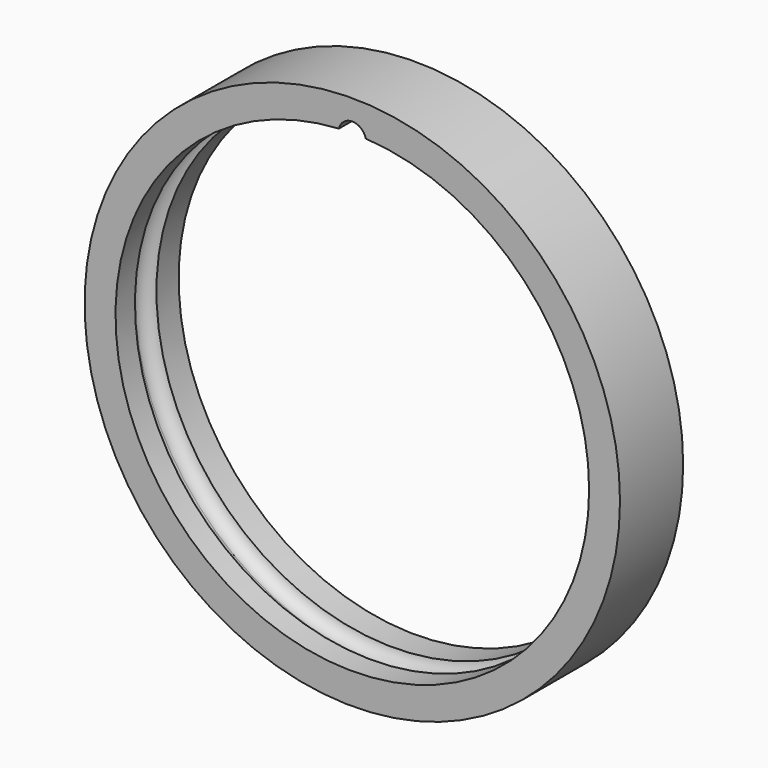
from build123d import *

# Parameters (mm, degrees)
CYLINDER2620_R     = 2
CYLINDER2620_DEPTH = 10
TORUS004_R         = 2
TUBE115_R          = 39
TUBE115_R_2        = 34.5
TUBE115_DEPTH      = 11.5


with BuildPart() as obj1:
    # Cylinder2620 → Cylinder2620 (new body)
    with BuildSketch(Plane(origin=(17, -98, 44), x_dir=(1, 0, 0), z_dir=(0, -1, 0))):
        Circle(CYLINDER2620_R)
    extrude(amount=CYLINDER2620_DEPTH)


with BuildPart() as obj2:
    # Torus004 → Torus004 (revolve)
    with BuildSketch(Plane(origin=(17, -98, 10), x_dir=(1, 0, 0), z_dir=(0, 0, -1))):
        with Locations((34.1, 0)):
            Circle(TORUS004_R)
    revolve(axis=Axis((17, -98, 10), (0, -1, 0)))


with BuildPart() as cut970:
    # Tube115 → Tube115 (new body)
    with BuildSketch(Plane(origin=(17, -92, 10), x_dir=(1, 0, 0), z_dir=(0, -1, 0))):
        Circle(TUBE115_R)
        Circle(TUBE115_R_2, mode=Mode.SUBTRACT)
    extrude(amount=TUBE115_DEPTH)

    # Cut969: cut obj2
    add(obj2.part, mode=Mode.SUBTRACT)

    # Cut970: cut obj1
    add(obj1.part, mode=Mode.SUBTRACT)


with BuildPart() as cut970_1:
    # Cut970 placement: moved
    add(cut970.part.moved(Location((0, -2, 0))))


solid = cut970_1.part
